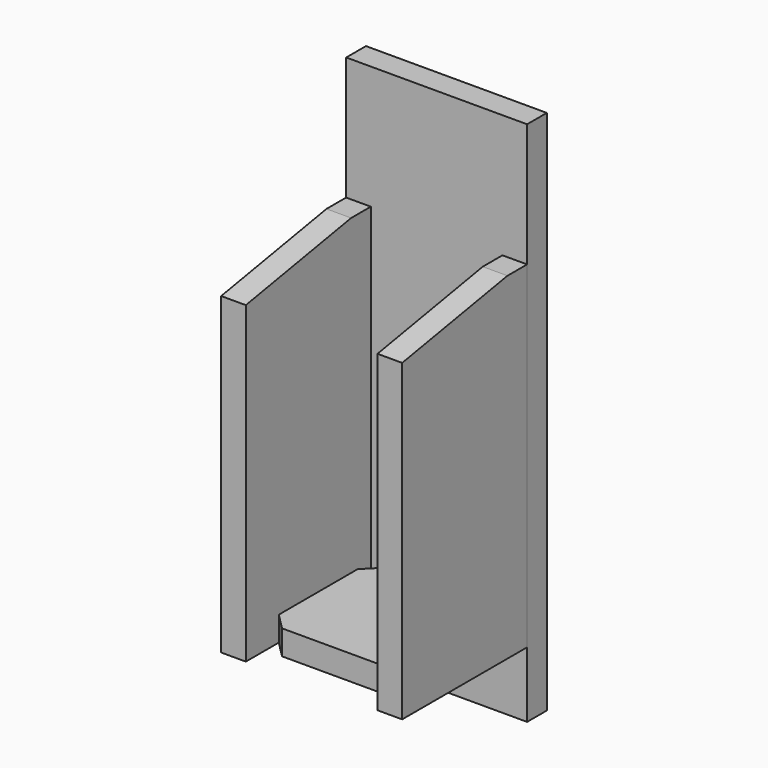
from build123d import *

# Parameters (mm, degrees)
F1_DEPTH      = 19.05
F2_W          = 139.7
F2_H          = 19.05
F3_DEPTH      = 355.6
F3_DEPTH_BACK = 50.8
F4_W          = 19.05
F4_H          = 120.65
F5_DEPTH      = 260.35
F7_DEPTH      = 139.7518


with BuildPart() as f1:
    # F0 (on Top) → F1 (new body)
    with BuildSketch(Plane.XY):
        Polygon((-38.1, -50.8), (38.1, -50.8), (50.8, -38.1), (50.8, 38.1), (38.1, 50.8), (-38.1, 50.8), (-50.8, 38.1), (-50.8, -38.1), align=None)
    extrude(amount=F1_DEPTH)


with BuildPart() as f3:
    # F2 (on Top) → F3 (new body, two sides)
    with BuildSketch(Plane.XY) as f3_sk:
        with Locations((0, 60.3758)):
            Rectangle(F2_W, F2_H)
    extrude(amount=F3_DEPTH)
    extrude(f3_sk.sketch, amount=-F3_DEPTH_BACK)


with BuildPart() as f5:
    # F4 (on Top) → F5 (new body)
    with BuildSketch(Plane.XY):
        with Locations((60.3758, -9.525)):
            Rectangle(F4_W, F4_H)
    extrude(amount=F5_DEPTH)

    # F6 (on face) → F7 (cut, through all)
    with BuildSketch(Plane.YZ.offset(69.9008)):
        Polygon((31.8008, 260.35), (-69.85, 260.35), (-69.85, 242.426221), align=None)
    extrude(amount=-F7_DEPTH, mode=Mode.SUBTRACT)


with BuildPart() as f8_1:
    # F8: instance of F5
    add(f5.part.mirror(Plane.YZ))


solid = Compound([f1.part, f3.part, f5.part, f8_1.part])
